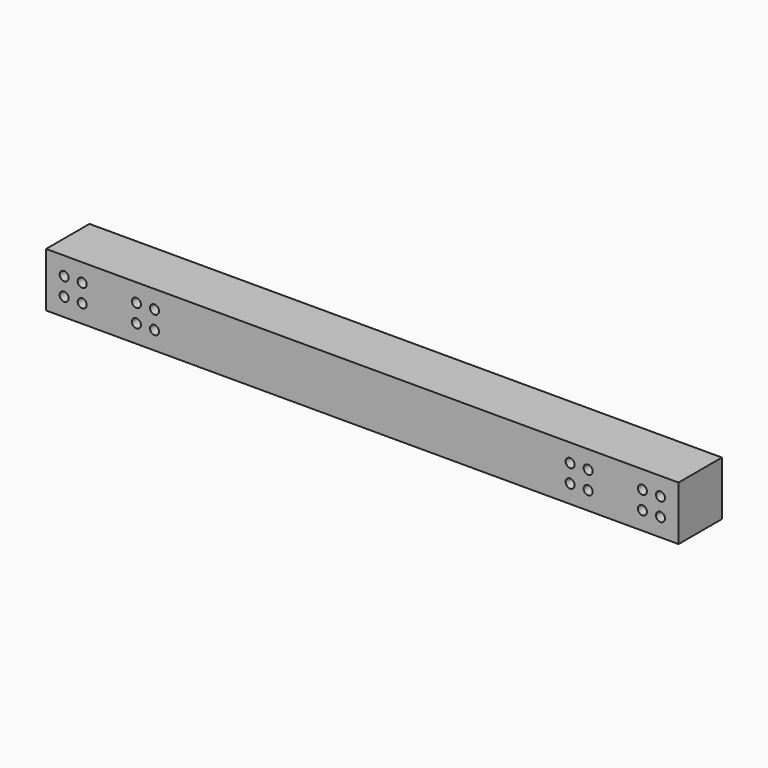
from build123d import *

# Parameters (mm, degrees)
F0_W     = 350
F0_H     = 30
F1_DEPTH = 15
F3_D     = 5


with BuildPart() as f1:
    # F0 (on Front) → F1 (new body, symmetric)
    with BuildSketch(Plane.XZ):
        Rectangle(F0_W, F0_H)
    extrude(amount=F1_DEPTH, both=True)

    # F3 (through all)
    with Locations(Plane.XZ.offset(15)):
        with Locations((-165, 5), (-165, -5), (-155, 5), (-155, -5), (155, 5), (155, -5), (165, 5), (165, -5), (-125, 5), (-125, -5), (-115, 5), (-115, -5), (115, 5), (125, 5), (125, -5), (115, -5)):
            Hole(F3_D / 2)


solid = f1.part
